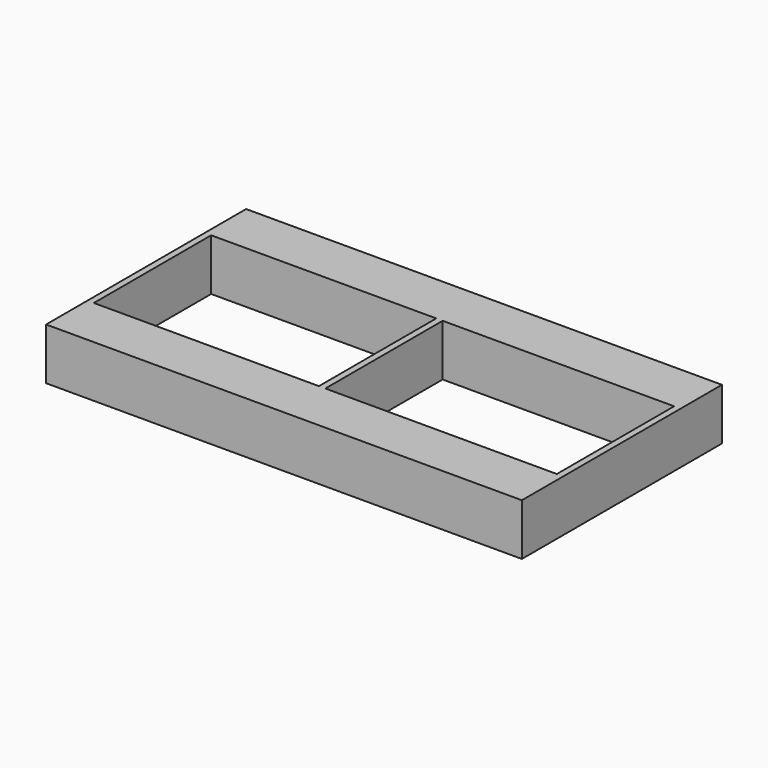
from build123d import *

# Parameters (mm, degrees)
F0_W     = 3.1496
F0_H     = 72.0344
F1_DEPTH = 25.4


with BuildPart() as f1:
    # F0 (on Top) → F1 (new body)
    with BuildSketch(Plane.XY):
        Polygon((116.8654, 40.488278), (-110.5662, 40.488278), (-110.5662, 15.088278), (0, 15.088278), (3.1496, 15.088278), (116.8654, 15.088278), align=None)
        Polygon((0, -56.946122), (-110.5662, -56.946122), (-110.5662, -82.346122), (116.8654, -82.346122), (116.8654, -56.946122), (3.1496, -56.946122), align=None)
        Polygon((-110.5662, 15.088278), (-110.5662, 40.488278), (-113.7158, 40.488278), (-113.7158, -82.346122), (-110.5662, -82.346122), (-110.5662, -56.946122), align=None)
        with Locations((1.5748, -20.928922)):
            Rectangle(F0_W, F0_H)
        Polygon((120.015, 40.488278), (116.8654, 40.488278), (116.8654, 15.088278), (116.8654, -56.946122), (116.8654, -82.346122), (120.015, -82.346122), align=None)
    extrude(amount=F1_DEPTH)


solid = f1.part
